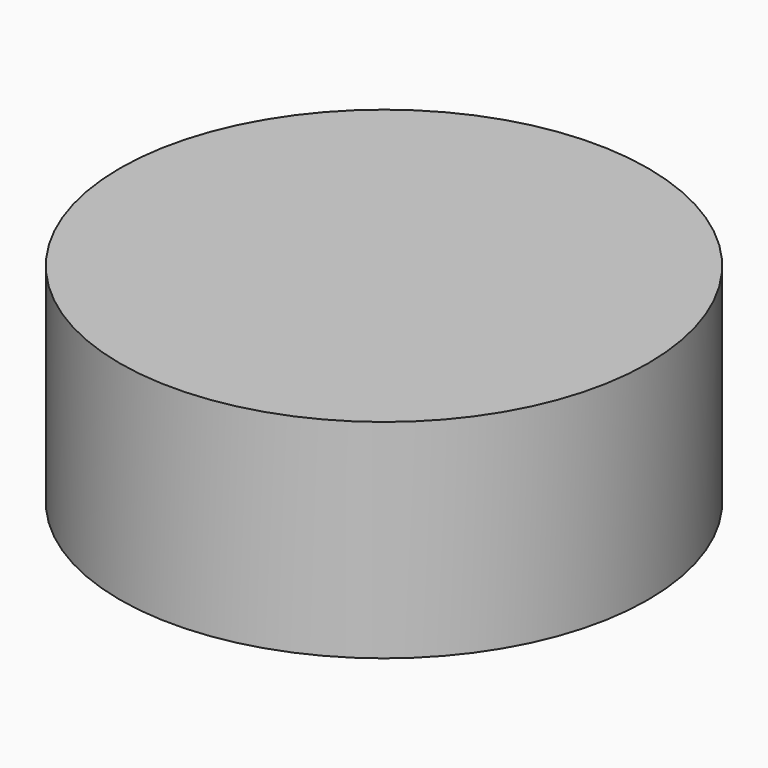
from build123d import *


with BuildPart() as part:
    # Sketch (on XZ_Plane of Origin) → Revolution (revolve)
    with BuildSketch(Plane.XZ):
        Polygon((0, 13), (0, 5), (15, 5), (15, 0), (16.5, 0), (16.5, 13), align=None)
    revolve(axis=Axis((0, 0, 0), (0, 0, 1)))


solid = part.part
